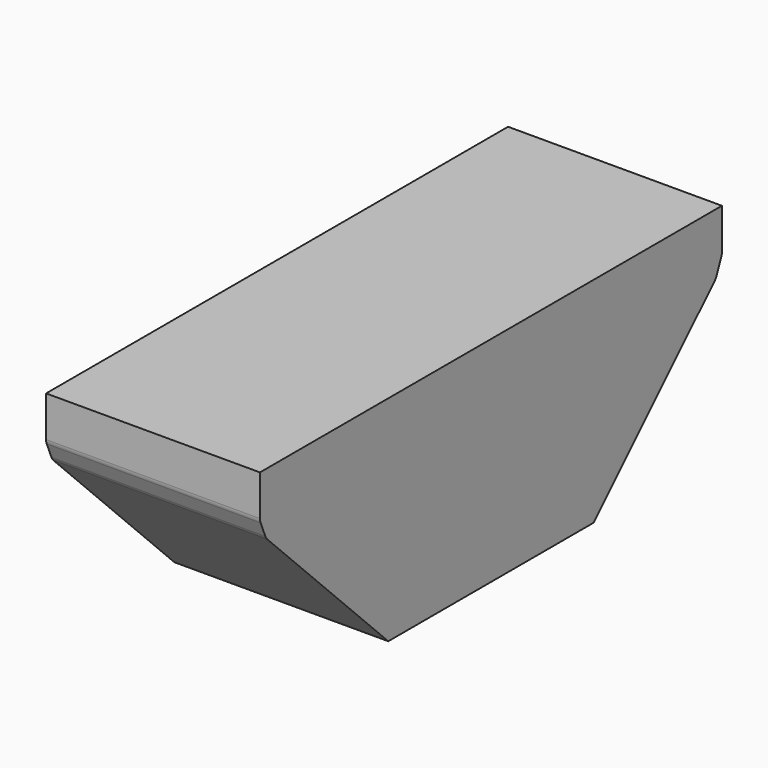
from build123d import *

# Parameters (mm, degrees)
F0_W     = 100
F0_H     = 270
F1_DEPTH = 100
F2_SIZE  = 75
F3_SIZE  = 5
F4_R     = 5


with BuildPart() as f1:
    # F0 (on Top) → F1 (new body)
    with BuildSketch(Plane.XY):
        Rectangle(F0_W, F0_H)
    extrude(amount=F1_DEPTH)

    # F2
    f2_edges = [f1.edges().sort_by_distance(p)[0] for p in [
        (0, -135, 0),
        (0, 135, 0),
    ]]
    chamfer(f2_edges, length=F2_SIZE)

    # F3
    f3_edges = [f1.edges().sort_by_distance(p)[0] for p in [
        (0, -135, 75),
        (0, 135, 75),
    ]]
    chamfer(f3_edges, length=F3_SIZE)

    # F4
    f4_edges = [f1.edges().sort_by_distance(p)[0] for p in [
        (0, 135, 80),
        (0, 131.464466, 71.464466),
        (0, -135, 80),
        (0, -131.464466, 71.464466),
    ]]
    fillet(f4_edges, radius=F4_R)


solid = f1.part
